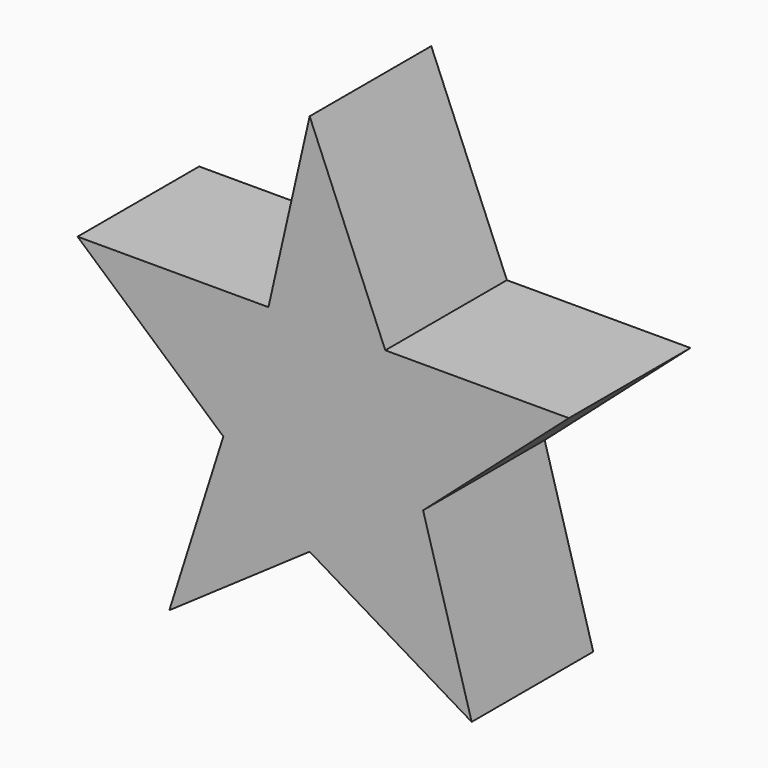
from build123d import *

# Parameters (mm, degrees)
F1_DEPTH = 25.4
F2_R     = 8.4230292531
F3_DEPTH = 15.24
F4_R     = 8.4646694798
F5_DEPTH = 15.24


with BuildPart() as f1:
    # F0 (on Front) → F1 (new body)
    with BuildSketch(Plane.XZ):
        Polygon((0, 51.8097877502), (-6.8899182792, 21.4846514834), (-38.7902185321, 21.4846514834), (-14.4291445613, 0), (-23.4517641366, -28.4915324301), (0, -12.2508164495), (27.0749107003, -28.4915324301), (18.9545508474, 0), (43.3156266809, 21.4846514834), (12.6387169585, 21.4846514834), align=None)
    extrude(amount=F1_DEPTH)

    # F2 (on face) → F3 (cut)
    with BuildSketch(Plane(origin=(-5.4041094275, 0, -9.0091951821), x_dir=(0.8575520342, 0, -0.5143972285), z_dir=(-0.5143972285, 0, -0.8575520342))):
        with Locations((6.3017860283, 12.7)):
            Circle(F2_R)
    extrude(amount=-F3_DEPTH, mode=Mode.SUBTRACT)

    # F4 (on face) → F5 (cut)
    with BuildSketch(Plane(origin=(5.7339883167, 0, -8.279939242), x_dir=(0.8221121344, 0, 0.5693255996), z_dir=(0.5693255996, 0, -0.8221121344))):
        with Locations((-6.9747034212, 12.7)):
            Circle(F4_R)
    extrude(amount=-F5_DEPTH, mode=Mode.SUBTRACT)


solid = f1.part
